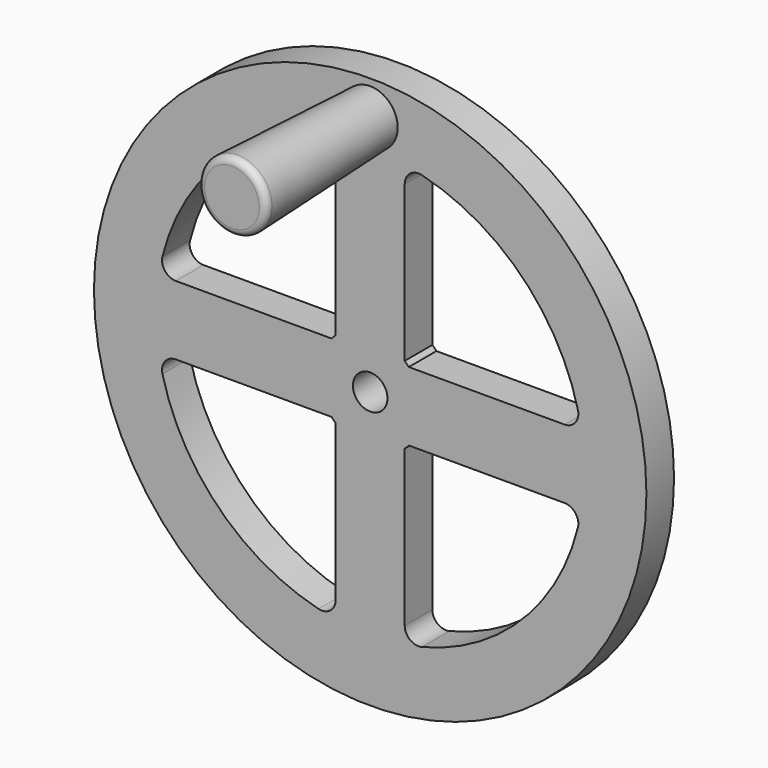
from build123d import *

# Parameters (mm, degrees)
F0_W     = 5.0157066435
F0_H     = 3
F2_R     = 1
F3_R     = 40
F3_R_2   = 2.9532327727
F4_DEPTH = 5
F5_R     = 2


with BuildPart() as f1:
    # F0 (on Right) → F1 (revolve)
    with BuildSketch(Plane.YZ):
        with Locations((-2.5078533217, 36.5)):
            Rectangle(F0_W, F0_H)
        Polygon((-5.0157066435, 39), (-30.0157066435, 40), (-30.0157066435, 35), (-5.0157066435, 35), (-5.0157066435, 38), align=None)
    revolve(axis=Axis((0, -14.3560131546, 35), (0, -1, 0)))

    # F2
    f2_edges = [f1.edges().sort_by_distance(p)[0] for p in [
        (0, -30.015707, 30),
    ]]
    fillet(f2_edges, radius=F2_R)


with BuildPart() as f4:
    # F3 (on Front) → F4 (new body)
    with BuildSketch(Plane.XZ):
        Circle(F3_R)
        with BuildLine():
            ThreePointArc((-5.5901700437, -4.9999998882), (-5.3033008589, -5.3033008589), (-4.9999998882, -5.5901700437))
            Line((-4.9999998882, -5.5901700437), (-4.9999998882, -30.5941170998))
            ThreePointArc((-4.9999998882, -30.5941170998), (-21.9203102168, -21.9203102168), (-30.5941170998, -4.9999998882))
            Line((-30.5941170998, -4.9999998882), (-5.5901700437, -4.9999998882))
        make_face(mode=Mode.SUBTRACT)
        with BuildLine():
            ThreePointArc((5, -5.5901699437), (5.3033008589, -5.3033008589), (5.5901699437, -5))
            Line((5.5901699437, -5), (30.5941170816, -5))
            ThreePointArc((30.5941170816, -5), (21.9203102168, -21.9203102168), (5, -30.5941170816))
            Line((5, -30.5941170816), (5, -5.5901699437))
        make_face(mode=Mode.SUBTRACT)
        with BuildLine():
            Line((-5, 30.5941170816), (-5, 5.5901699437))
            ThreePointArc((-5, 5.5901699437), (-5.3033008589, 5.3033008589), (-5.5901699437, 5))
            Line((-5.5901699437, 5), (-30.5941170816, 5))
            ThreePointArc((-30.5941170816, 5), (-21.9203102168, 21.9203102168), (-5, 30.5941170816))
        make_face(mode=Mode.SUBTRACT)
        with BuildLine():
            ThreePointArc((-2.5, 0), (0, 2.5), (2.5, 0))
            ThreePointArc((2.5, 0), (0, -2.5), (-2.5, 0))
        make_face(mode=Mode.SUBTRACT)
        with BuildLine():
            ThreePointArc((5, 30.5941170816), (21.9203102168, 21.9203102168), (30.5941170816, 5))
            Line((30.5941170816, 5), (5.5901699437, 5))
            ThreePointArc((5.5901699437, 5), (5.3033008589, 5.3033008589), (5, 5.5901699437))
            Line((5, 5.5901699437), (5, 30.5941170816))
        make_face(mode=Mode.SUBTRACT)
        with Locations((0, 35)):
            Circle(F3_R_2, mode=Mode.SUBTRACT)
    extrude(amount=F4_DEPTH)

    # F5
    f5_edges = [f4.edges().sort_by_distance(p)[0] for p in [
        (5, -2.5, 30.594117),
        (-5, -2.5, 30.594117),
        (-30.594117, -2.5, 5),
        (-30.594117, -2.5, -5),
        (-5, -2.5, -30.594117),
        (5, -2.5, -30.594117),
        (30.594117, -2.5, -5),
        (30.594117, -2.5, 5),
    ]]
    fillet(f5_edges, radius=F5_R)


solid = Compound([f1.part, f4.part])
